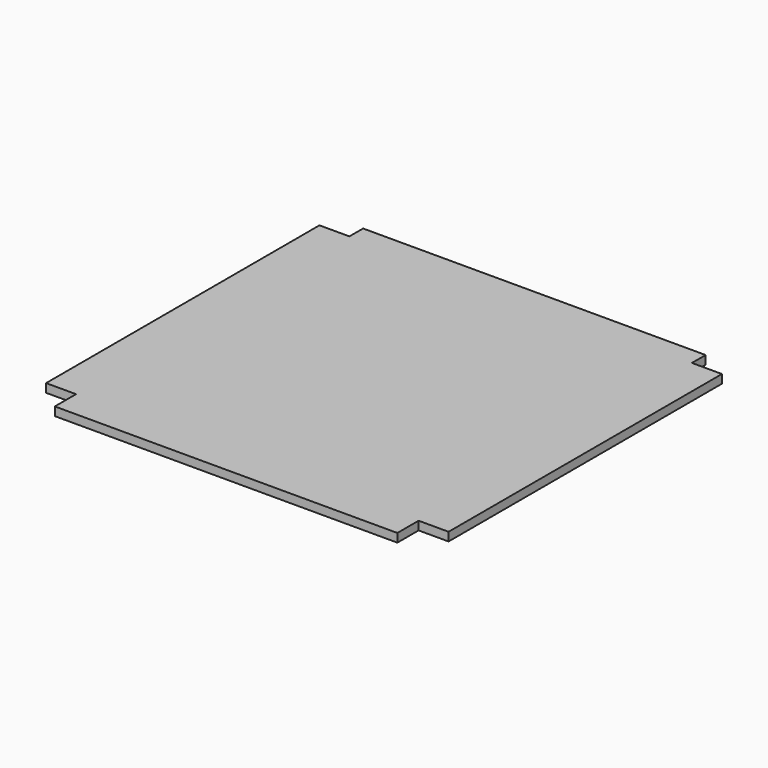
from build123d import *

# Parameters (mm, degrees)
F0_W     = 470
F0_H     = 450
F1_DEPTH = 10
F2_W     = 35
F2_H     = 20
F2_H_2   = 31
F3_DEPTH = 10.001


with BuildPart() as f1:
    # F0 (on Top) → F1 (new body)
    with BuildSketch(Plane.XY):
        with Locations((235, 225)):
            Rectangle(F0_W, F0_H)
    extrude(amount=F1_DEPTH)

    # F2 (on face) + F0 (on Top) → F3 (cut, through all)
    with BuildSketch(Plane.XY.offset(10)):
        with Locations((17.5, 440)):
            Rectangle(F2_W, F2_H)
        with Locations((17.5, 15.5)):
            Rectangle(F2_W, F2_H_2)
        with Locations((452.5, 440)):
            Rectangle(F2_W, F2_H)
        with Locations((452.5, 15.5)):
            Rectangle(F2_W, F2_H_2)
    with BuildSketch(Plane.XY):
        with Locations((235, 225)):
            Rectangle(F0_W, F0_H)
    extrude(amount=-F3_DEPTH, mode=Mode.SUBTRACT)


solid = f1.part
